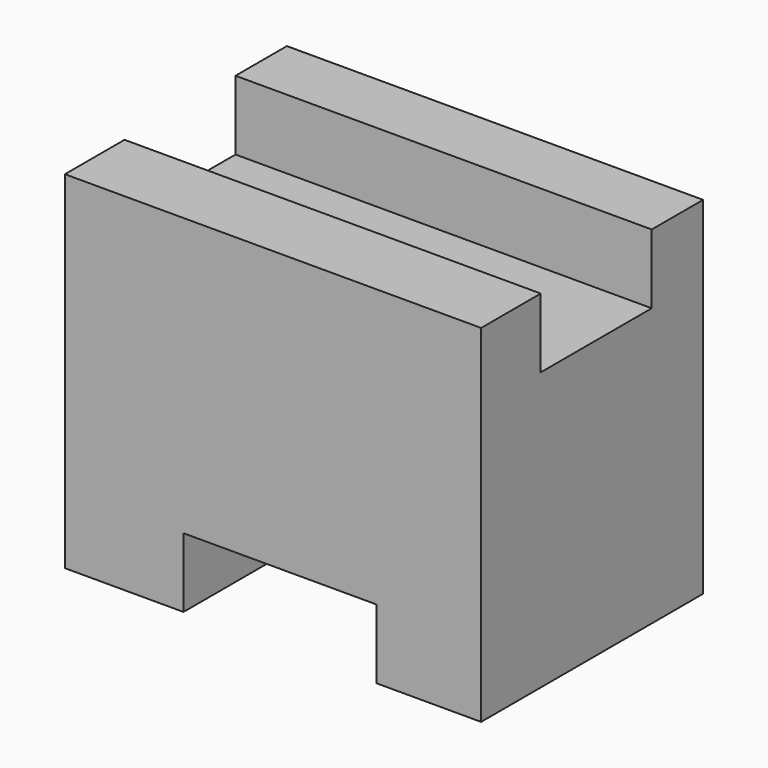
from build123d import *

# Parameters (mm, degrees)
F0_W     = 25.4
F0_H     = 31.75
F1_DEPTH = 38.1
F2_W     = 38.1
F2_H     = 12.7
F3_DEPTH = 6.35
F4_W     = 17.676627
F4_H     = 25.4
F5_DEPTH = 6.35


with BuildPart() as f1:
    # F0 (on Right) → F1 (new body)
    with BuildSketch(Plane.YZ):
        with Locations((12.7, 15.875)):
            Rectangle(F0_W, F0_H)
    extrude(amount=F1_DEPTH)

    # F2 (on face) → F3 (cut)
    with BuildSketch(Plane.XY.offset(31.75)):
        with Locations((19.05, 13.172559)):
            Rectangle(F2_W, F2_H)
    extrude(amount=-F3_DEPTH, mode=Mode.SUBTRACT)

    # F4 (on face) → F5 (cut)
    with BuildSketch(Plane(origin=(0, 0, 0), x_dir=(1, 0, 0), z_dir=(0, 0, -1))):
        with Locations((19.692383, -12.7)):
            Rectangle(F4_W, F4_H)
    extrude(amount=-F5_DEPTH, mode=Mode.SUBTRACT)


solid = f1.part
